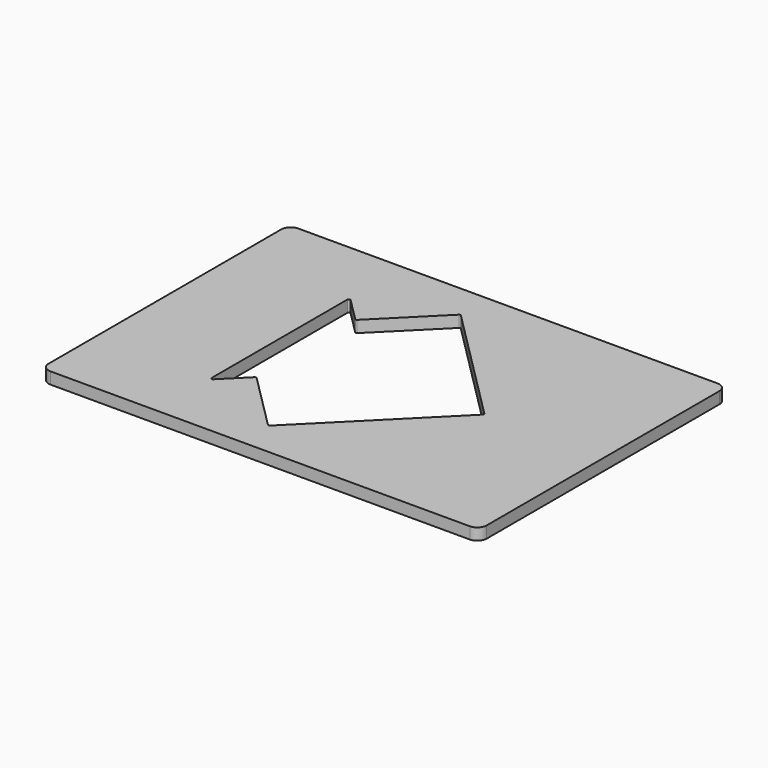
from build123d import *

# Parameters (mm, degrees)
F0_W     = 238.125
F0_H     = 168.275
F1_DEPTH = 6.35
F3_DEPTH = 25.4
F4_R     = 5.08
F6_DEPTH = 6.351


with BuildPart() as f1:
    # F0 (on Top) → F1 (new body)
    with BuildSketch(Plane.XY):
        Rectangle(F0_W, F0_H)
    extrude(amount=F1_DEPTH)

    # F2 (on face) → F3 (cut)
    with BuildSketch(Plane.XY.offset(6.35)):
        Polygon((-42.458184, 31.839972), (-55.5625, 44.958), (-55.5625, 0), (-55.5625, -44.958), (-42.458184, -31.839972), (-10.651458, -63.613451), (52.8955, 0), (-10.651458, 63.613451), align=None)
    extrude(amount=-F3_DEPTH, mode=Mode.SUBTRACT)

    # F4
    f4_edges = [f1.edges().sort_by_distance(p)[0] for p in [
        (119.0625, -84.1375, 3.175),
        (119.0625, 84.1375, 3.175),
        (-119.0625, -84.1375, 3.175),
        (-119.0625, 84.1375, 3.175),
    ]]
    fillet(f4_edges, radius=F4_R)

    # F5 (on face) → F6 (cut, through all)
    with BuildSketch(Plane.XY.offset(6.35)):
        with BuildLine():
            Line((-43.013729, 34.19309), (-55.488033, 46.680446))
            ThreePointArc((-55.488033, 46.680446), (-56.346235, 46.851503), (-56.8325, 46.123962))
            Line((-56.8325, 46.123962), (-56.8325, -46.123962))
            ThreePointArc((-56.8325, -46.123962), (-56.346235, -46.851503), (-55.488033, -46.680446))
            Line((-55.488033, -46.680446), (-43.013729, -34.19309))
            ThreePointArc((-43.013729, -34.19309), (-42.457074, -33.962175), (-41.900178, -34.192508))
            Line((-41.900178, -34.192508), (-11.207586, -64.853017))
            ThreePointArc((-11.207586, -64.853017), (-10.65069, -65.08335), (-10.094034, -64.852435))
            Line((-10.094034, -64.852435), (54.13471, -0.556485))
            ThreePointArc((54.13471, -0.556485), (54.365043, 0), (54.13471, 0.556485))
            Line((54.13471, 0.556485), (-10.094034, 64.852435))
            ThreePointArc((-10.094034, 64.852435), (-10.65069, 65.08335), (-11.207586, 64.853017))
            Line((-11.207586, 64.853017), (-41.900178, 34.192508))
            ThreePointArc((-41.900178, 34.192508), (-42.457074, 33.962175), (-43.013729, 34.19309))
        make_face()
    extrude(amount=-F6_DEPTH, mode=Mode.SUBTRACT)


solid = f1.part
